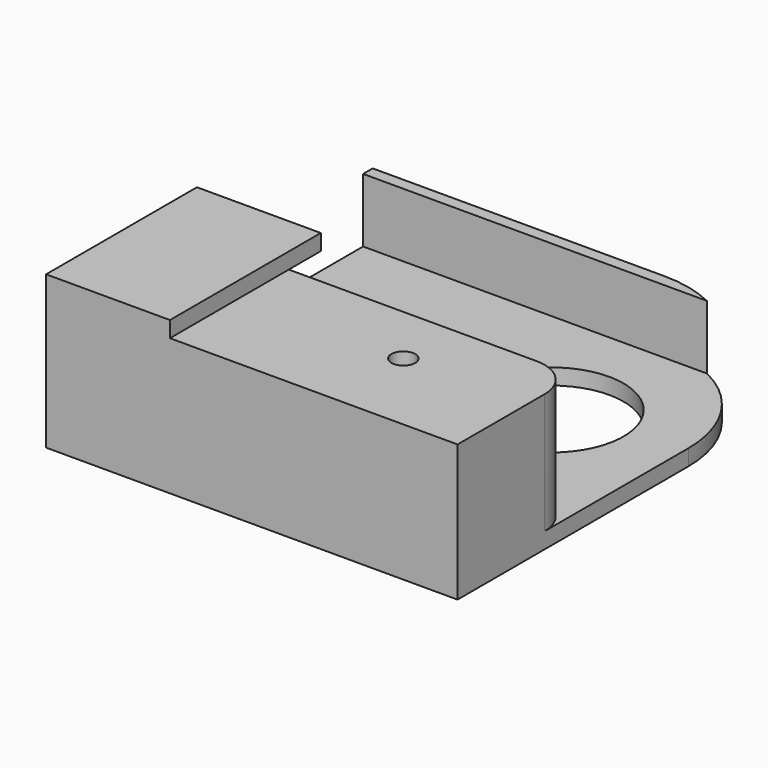
from build123d import *

# Parameters (mm, degrees)
F1_DEPTH = 17.1
F0_W     = 31
F0_H     = 31
F0_R     = 9
F0_W_2   = 20.5
F2_DEPTH = 2
F3_DEPTH = 10
F4_R     = 15
F5_W     = 15.5
F5_H     = 5
F5_H_2   = 18.6
F6_DEPTH = 2
F7_D     = 3
F8_R     = 5


with BuildPart() as f1:
    # F0 (on Top) → F1 (new body)
    with BuildSketch(Plane.XY):
        Polygon((36, -15.5), (15.5, -15.5), (-15.5, -15.5), (-15.5, -34.1), (36, -34.1), align=None)
    extrude(amount=F1_DEPTH)

    # F0 (on Top) → F2 (join)
    with BuildSketch(Plane.XY):
        Rectangle(F0_W, F0_H)
        Circle(F0_R, mode=Mode.SUBTRACT)
        with Locations((25.75, 0)):
            Rectangle(F0_W_2, F0_H)
    extrude(amount=F2_DEPTH)

    # F0 (on Top) → F3 (join)
    with BuildSketch(Plane.XY):
        Polygon((-15.5, 15.5), (15.5, 15.5), (36, 15.5), (36, 17), (-15.5, 17), align=None)
    extrude(amount=F3_DEPTH)

    # F4
    f4_edges = [f1.edges().sort_by_distance(p)[0] for p in [
        (-15.5, 17, 5),
    ]]
    fillet(f4_edges, radius=F4_R)

    # F5 (on face) → F6 (join)
    with BuildSketch(Plane.XY.offset(17.1)):
        with Locations((28.25, -13)):
            Rectangle(F5_W, F5_H)
        with Locations((28.25, -24.8)):
            Rectangle(F5_W, F5_H_2)
    extrude(amount=F6_DEPTH)

    # F7 (through all)
    with Locations(Plane.XY.offset(17.1)):
        with Locations((0, -23.2)):
            Hole(F7_D / 2)

    # F8
    f8_edges = [f1.edges().sort_by_distance(p)[0] for p in [
        (-15.5, -15.5, 9.55),
    ]]
    fillet(f8_edges, radius=F8_R)


with BuildPart() as f9_1:
    # F9: instance of F1
    add(f1.part.mirror(Plane(origin=(36, -19.66422, 8.390388), x_dir=(0, 1, 0), z_dir=(1, 0, 0))))


solid = f9_1.part
